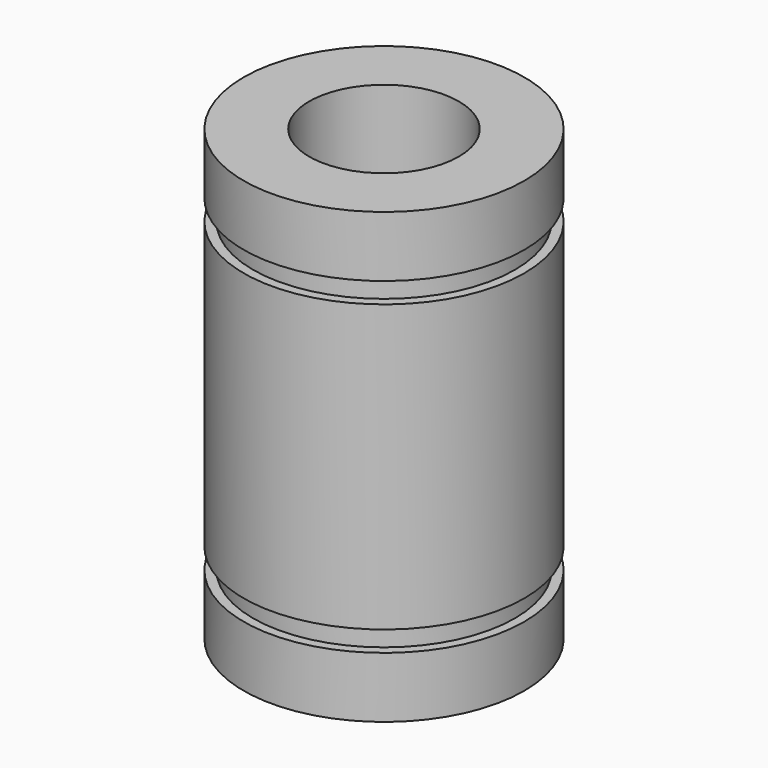
from build123d import *

# Parameters (mm, degrees)
F0_R     = 7.5
F0_R_2   = 4
F1_DEPTH = 24
F2_W     = 0.5
F2_H     = 1.1


with BuildPart() as f1:
    # F0 (on Top) → F1 (new body)
    with BuildSketch(Plane.XY):
        Circle(F0_R)
        Circle(F0_R_2, mode=Mode.SUBTRACT)
    extrude(amount=F1_DEPTH)

    # F2 (on Right) → F3 (revolve, cut)
    with BuildSketch(Plane.YZ):
        with Locations((7.25, 3.8)):
            Rectangle(F2_W, F2_H)
        with Locations((7.25, 20.2)):
            Rectangle(F2_W, F2_H)
    revolve(axis=Axis((0, 0, 0), (0, 0, -1)), mode=Mode.SUBTRACT)


solid = f1.part
